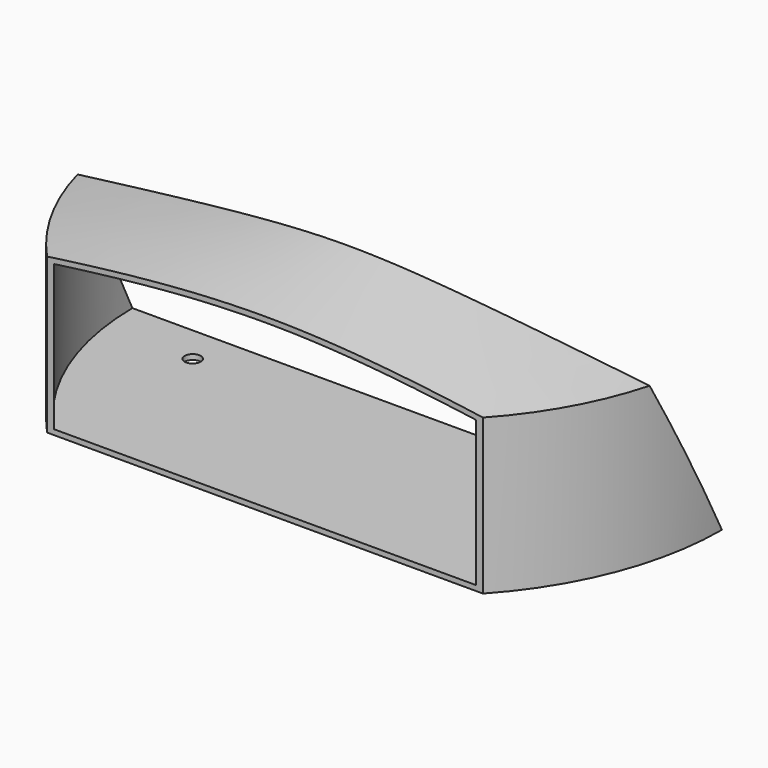
from build123d import *

# Parameters (mm, degrees)
REVOLUTION_ANGLE     = -180
THICKNESS_T          = -1.3
POCKET_DEPTH         = 73.801
POCKET_DEPTH_BACK    = -73.801
SKETCH002_R          = 2
POCKET001_DEPTH      = 5
SKETCH003_W          = 150
SKETCH003_H          = 50
POCKET002_DEPTH      = 0.001
POCKET002_DEPTH_BACK = -48.044069


with BuildPart() as part:
    # Sketch → Revolution (revolve)
    with BuildSketch(Plane.XZ):
        Polygon((0, 0), (0, 52.6), (73.8, 38.6), (73.8, 0), align=None)
    revolve(axis=Axis((0, 0, 0), (0, 0, 1)), revolution_arc=REVOLUTION_ANGLE)

    # Thickness
    thickness_openings = [part.faces().sort_by_distance(p)[0] for p in [
        (0, 0, 22.979094),
    ]]
    offset(amount=THICKNESS_T, openings=thickness_openings)

    # Sketch001 → Pocket (cut, two sides)
    with BuildSketch(Plane.YZ) as pocket_sk:
        Polygon((0, 0), (-30, 60), (10, 60), (10, 0), align=None)
    extrude(amount=-POCKET_DEPTH, mode=Mode.SUBTRACT)
    extrude(pocket_sk.sketch, amount=-POCKET_DEPTH_BACK, mode=Mode.SUBTRACT)

    # Sketch002 → Pocket001 (cut)
    with BuildSketch(Plane.XY):
        with Locations((-50, -10)):
            Circle(SKETCH002_R)
        with Locations((50, -10)):
            Circle(SKETCH002_R)
    extrude(amount=POCKET001_DEPTH, mode=Mode.SUBTRACT)

    # Sketch003 → Pocket002 (cut, two sides)
    with BuildSketch(Plane.XY) as pocket002_sk:
        with Locations((0, -75)):
            Rectangle(SKETCH003_W, SKETCH003_H)
    extrude(amount=-POCKET002_DEPTH, mode=Mode.SUBTRACT)
    extrude(pocket002_sk.sketch, amount=-POCKET002_DEPTH_BACK, mode=Mode.SUBTRACT)


solid = part.part
